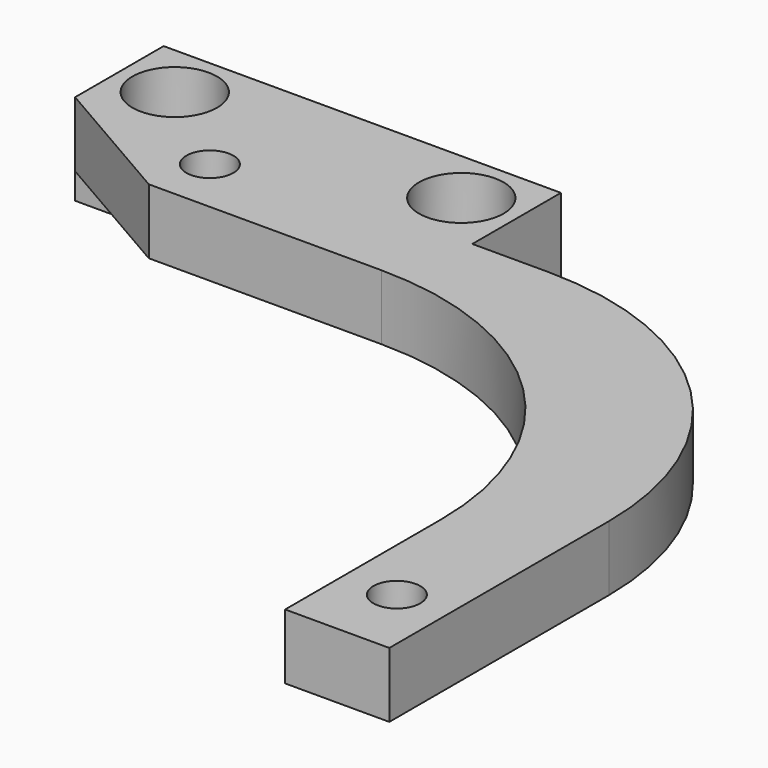
from build123d import *

# Parameters (mm, degrees)
SKETCH_R        = 3.25
SKETCH_R_2      = 1.8
PAD_DEPTH       = 5
FILLET_R        = 23
SKETCH001_W     = 30.5
SKETCH001_H     = 8.5
PAD001_DEPTH    = 2
SKETCH002_R     = 1.6
POCKET_DEPTH    = 1.75
POCKET001_DEPTH = 3
POCKET002_DEPTH = 5


with BuildPart() as part:
    # Sketch → Pad (new body)
    with BuildSketch(Plane.XY):
        Polygon((-33.582267, 28.569447), (-3.082267, 28.569447), (-3.082267, 20.069447), (25.8, 20.069447), (25.8, -24), (17.8, -24), (17.8, 14), (-23.069676, 14), (-33.582267, 20.069447), align=None)
        with Locations((-29.332267, 24.319447)):
            Circle(SKETCH_R, mode=Mode.SUBTRACT)
        with Locations((-7.332267, 24.319447)):
            Circle(SKETCH_R, mode=Mode.SUBTRACT)
        with Locations((-21.832267, 18.319447)):
            Circle(SKETCH_R_2, mode=Mode.SUBTRACT)
        with Locations((21.832267, -18.319447)):
            Circle(SKETCH_R_2, mode=Mode.SUBTRACT)
    extrude(amount=PAD_DEPTH)

    # Fillet
    fillet_edges = [part.edges().sort_by_distance(p)[0] for p in [
        (25.8, 20.069447, 2.5),
        (17.8, 14, 2.5),
    ]]
    fillet(fillet_edges, radius=FILLET_R)

    # Sketch001 → Pad001 (new body)
    with BuildSketch(Plane(origin=(0, 0, 0), x_dir=(1, 0, 0), z_dir=(0, 0, -1))):
        with Locations((-18.332267, -24.319447)):
            Rectangle(SKETCH001_W, SKETCH001_H)
    extrude(amount=PAD001_DEPTH)

    # Sketch002 → Pocket (cut)
    with BuildSketch(Plane(origin=(0, 0, -2), x_dir=(1, 0, 0), z_dir=(0, 0, -1))):
        with Locations((-29.332267, -24.319447)):
            Circle(SKETCH002_R)
        with Locations((-7.332267, -24.319447)):
            Circle(SKETCH002_R)
    extrude(amount=-POCKET_DEPTH, mode=Mode.SUBTRACT)

    # Sketch003 → Pocket001 (cut)
    with BuildSketch(Plane(origin=(0, 0, 0), x_dir=(1, 0, 0), z_dir=(0, 0, -1))):
        Polygon((24.733452, 16.644447), (24.733452, 19.994447), (21.832267, 21.669447), (18.931082, 19.994447), (18.931082, 16.644447), (21.832267, 14.969447), align=None)
    extrude(amount=-POCKET001_DEPTH, mode=Mode.SUBTRACT)

    # Sketch004 → Pocket002 (cut)
    with BuildSketch(Plane(origin=(0, 0, -2), x_dir=(1, 0, 0), z_dir=(0, 0, -1))):
        Polygon((-18.931082, -19.994447), (-18.931082, -16.644447), (-21.832267, -14.969447), (-24.733452, -16.644447), (-24.733452, -19.994447), (-21.832267, -21.669447), align=None)
    extrude(amount=-POCKET002_DEPTH, mode=Mode.SUBTRACT)


solid = part.part
